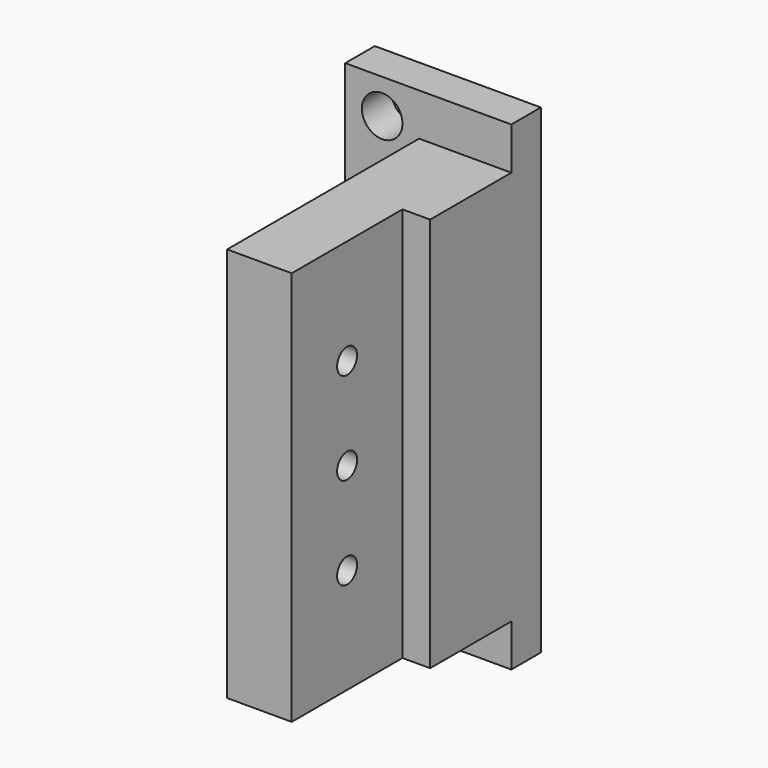
from build123d import *

# Parameters (mm, degrees)
F1_DEPTH  = 10
F2_W      = 15
F2_H      = 42.8
F3_DEPTH  = 3
F4_R      = 1.35
F5_DEPTH  = 7.001
F6_W      = 4
F6_H      = 4.6
F6_H_2    = 42.8
F7_DEPTH  = 8
F8_DEPTH  = 10
F9_R      = 2.2
F10_DEPTH = 4.001


with BuildPart() as f1:
    # F0 (on Right) → F1 (new body)
    with BuildSketch(Plane.YZ):
        Polygon((7, 0), (-23, 0), (-23, -42.8), (0, -42.8), (7, -42.8), align=None)
    extrude(amount=F1_DEPTH)

    # F2 (on face) → F3 (cut)
    with BuildSketch(Plane.YZ.offset(10)):
        with Locations((-15.5, -21.4)):
            Rectangle(F2_W, F2_H)
    extrude(amount=-F3_DEPTH, mode=Mode.SUBTRACT)

    # F4 (on face) → F5 (cut, through all)
    with BuildSketch(Plane.YZ.offset(7)):
        with Locations((-15.5, -21.4)):
            Circle(F4_R)
        with Locations((-15.5, -11.4)):
            Circle(F4_R)
        with Locations((-15.5, -31.4)):
            Circle(F4_R)
    extrude(amount=-F5_DEPTH, mode=Mode.SUBTRACT)

    # F6 (on face) → F7 (join)
    with BuildSketch(Plane(origin=(0, 0, 0), x_dir=(0, -1, 0), z_dir=(-1, 0, 0))):
        with Locations((-5, 2.3)):
            Rectangle(F6_W, F6_H)
        with Locations((-5, -45.1)):
            Rectangle(F6_W, F6_H)
        with Locations((-5, -21.4)):
            Rectangle(F6_W, F6_H_2)
    extrude(amount=F7_DEPTH)

    # F8 (add): faces of the model
    f8_faces = [f1.faces().sort_by_distance(p)[0] for p in [
        (0, 5, -45.1),
        (0, 5, 2.3),
    ]]
    extrude(f8_faces, amount=F8_DEPTH)

    # F9 (on face) → F10 (cut, through all)
    with BuildSketch(Plane.XZ.offset(-3)):
        with Locations((-4, 0.85)):
            Circle(F9_R)
        with Locations((-4, -43.65)):
            Circle(F9_R)
    extrude(amount=-F10_DEPTH, mode=Mode.SUBTRACT)


solid = f1.part
